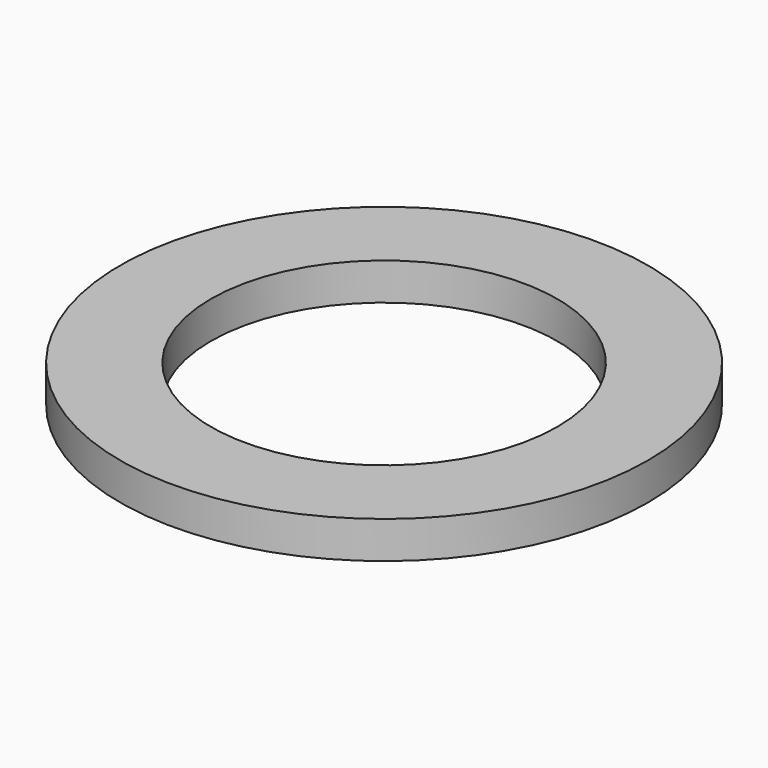
from build123d import *

# Parameters (mm, degrees)
SKETCH_R   = 6.4
SKETCH_R_2 = 4.2
PAD_DEPTH  = 0.9


with BuildPart() as part:
    # Sketch → Pad (new body)
    with BuildSketch(Plane.XY):
        Circle(SKETCH_R)
        Circle(SKETCH_R_2, mode=Mode.SUBTRACT)
    extrude(amount=PAD_DEPTH)


solid = part.part
